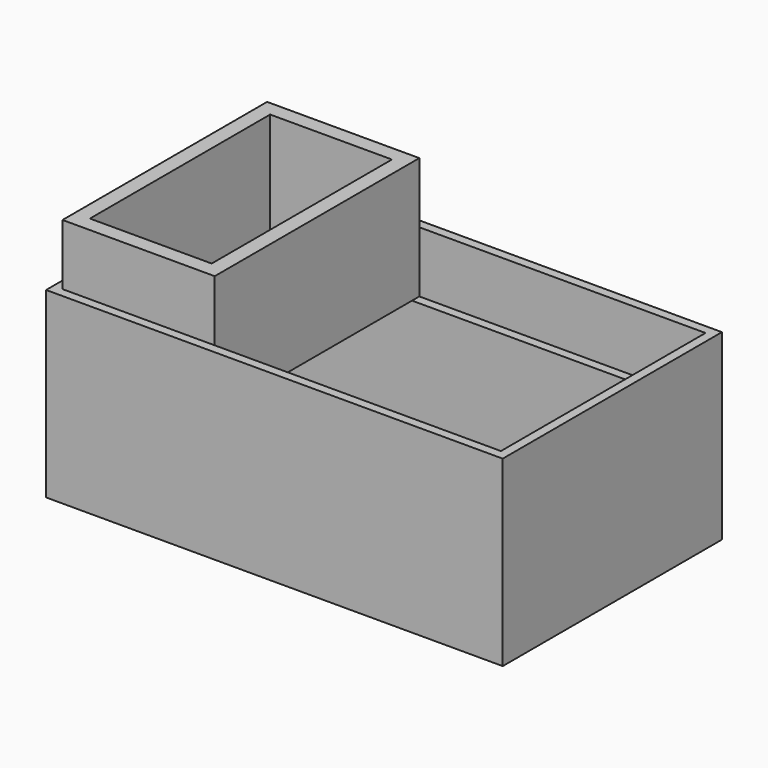
from build123d import *

# Parameters (mm, degrees)
F0_W     = 150
F0_H     = 90
F1_DEPTH = 60
F2_T     = -6
F3_W     = 144
F3_H     = 84
F4_DEPTH = 20
F5_W     = 50
F5_H     = 84
F6_DEPTH = 40
F7_T     = -5


with BuildPart() as f1:
    # F0 (on Top) → F1 (new body)
    with BuildSketch(Plane.XY):
        Rectangle(F0_W, F0_H)
    extrude(amount=F1_DEPTH)

    # F2
    f2_openings = [f1.faces().sort_by_distance(p)[0] for p in [
        (0, 0, 60),
    ]]
    offset(amount=F2_T, openings=f2_openings)

    # F3 (on face) → F4 (cut)
    with BuildSketch(Plane.XY.offset(60)):
        Rectangle(F3_W, F3_H)
    extrude(amount=-F4_DEPTH, mode=Mode.SUBTRACT)


with BuildPart() as f6:
    # F5 (on face) → F6 (new body)
    with BuildSketch(Plane.XY.offset(40)):
        with Locations((-47, 0)):
            Rectangle(F5_W, F5_H)
    extrude(amount=F6_DEPTH)

    # F7
    f7_openings = [f6.faces().sort_by_distance(p)[0] for p in [
        (-47, 0, 80),
    ]]
    offset(amount=F7_T, openings=f7_openings)


solid = Compound([f1.part, f6.part])
